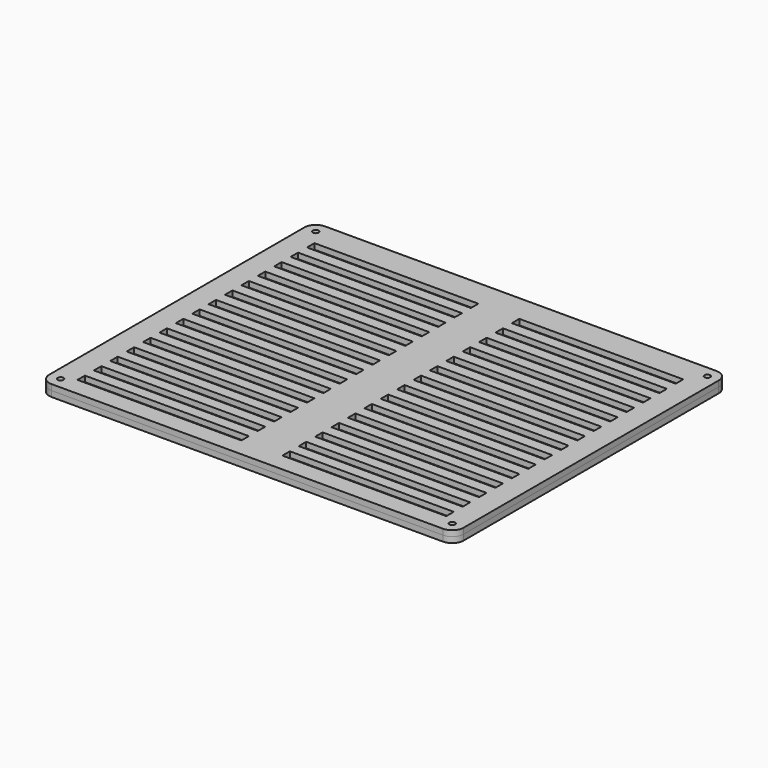
from build123d import *

# Parameters (mm, degrees)
F0_R     = 1.5875
F0_W     = 91.44
F0_H     = 5.207
F1_DEPTH = 3.175
F2_R     = 1.5875
F2_W     = 91.44
F2_H     = 5.207
F3_DEPTH = 3.175


with BuildPart() as f1:
    # F0 (on Top) → F1 (new body)
    with BuildSketch(Plane.XY):
        with BuildLine():
            Line((166.37, 175.3235), (-52.07, 175.3235))
            ThreePointArc((-52.07, 175.3235), (-56.560128, 173.463628), (-58.42, 168.9735))
            Line((-58.42, 168.9735), (-58.42, -8.9535))
            ThreePointArc((-58.42, -8.9535), (-56.560128, -13.443628), (-52.07, -15.3035))
            Line((-52.07, -15.3035), (166.37, -15.3035))
            ThreePointArc((166.37, -15.3035), (170.860128, -13.443628), (172.72, -8.9535))
            Line((172.72, -8.9535), (172.72, 168.9735))
            ThreePointArc((172.72, 168.9735), (170.860128, 173.463628), (166.37, 175.3235))
        make_face()
        with Locations((-52.07, -8.9535)):
            Circle(F0_R, mode=Mode.SUBTRACT)
        Rectangle(F0_W, F0_H, mode=Mode.SUBTRACT)
        with Locations((0, 11.43)):
            Rectangle(F0_W, F0_H, mode=Mode.SUBTRACT)
        with Locations((0, 22.86)):
            Rectangle(F0_W, F0_H, mode=Mode.SUBTRACT)
        with Locations((0, 34.29)):
            Rectangle(F0_W, F0_H, mode=Mode.SUBTRACT)
        with Locations((0, 45.72)):
            Rectangle(F0_W, F0_H, mode=Mode.SUBTRACT)
        with Locations((0, 57.15)):
            Rectangle(F0_W, F0_H, mode=Mode.SUBTRACT)
        with Locations((0, 68.58)):
            Rectangle(F0_W, F0_H, mode=Mode.SUBTRACT)
        with Locations((114.3, 0)):
            Rectangle(F0_W, F0_H, mode=Mode.SUBTRACT)
        with Locations((114.3, 11.43)):
            Rectangle(F0_W, F0_H, mode=Mode.SUBTRACT)
        with Locations((114.3, 22.86)):
            Rectangle(F0_W, F0_H, mode=Mode.SUBTRACT)
        with Locations((166.37, -8.9535)):
            Circle(F0_R, mode=Mode.SUBTRACT)
        with Locations((114.3, 34.29)):
            Rectangle(F0_W, F0_H, mode=Mode.SUBTRACT)
        with Locations((114.3, 45.72)):
            Rectangle(F0_W, F0_H, mode=Mode.SUBTRACT)
        with Locations((114.3, 57.15)):
            Rectangle(F0_W, F0_H, mode=Mode.SUBTRACT)
        with Locations((114.3, 68.58)):
            Rectangle(F0_W, F0_H, mode=Mode.SUBTRACT)
        with Locations((0, 80.01)):
            Rectangle(F0_W, F0_H, mode=Mode.SUBTRACT)
        with Locations((0, 91.44)):
            Rectangle(F0_W, F0_H, mode=Mode.SUBTRACT)
        with Locations((0, 102.87)):
            Rectangle(F0_W, F0_H, mode=Mode.SUBTRACT)
        with Locations((0, 114.3)):
            Rectangle(F0_W, F0_H, mode=Mode.SUBTRACT)
        with Locations((0, 125.73)):
            Rectangle(F0_W, F0_H, mode=Mode.SUBTRACT)
        with Locations((-52.07, 168.9735)):
            Circle(F0_R, mode=Mode.SUBTRACT)
        with Locations((0, 137.16)):
            Rectangle(F0_W, F0_H, mode=Mode.SUBTRACT)
        with Locations((0, 148.59)):
            Rectangle(F0_W, F0_H, mode=Mode.SUBTRACT)
        with Locations((0, 160.02)):
            Rectangle(F0_W, F0_H, mode=Mode.SUBTRACT)
        with Locations((114.3, 80.01)):
            Rectangle(F0_W, F0_H, mode=Mode.SUBTRACT)
        with Locations((114.3, 91.44)):
            Rectangle(F0_W, F0_H, mode=Mode.SUBTRACT)
        with Locations((114.3, 102.87)):
            Rectangle(F0_W, F0_H, mode=Mode.SUBTRACT)
        with Locations((114.3, 114.3)):
            Rectangle(F0_W, F0_H, mode=Mode.SUBTRACT)
        with Locations((114.3, 125.73)):
            Rectangle(F0_W, F0_H, mode=Mode.SUBTRACT)
        with Locations((114.3, 137.16)):
            Rectangle(F0_W, F0_H, mode=Mode.SUBTRACT)
        with Locations((114.3, 148.59)):
            Rectangle(F0_W, F0_H, mode=Mode.SUBTRACT)
        with Locations((114.3, 160.02)):
            Rectangle(F0_W, F0_H, mode=Mode.SUBTRACT)
        with Locations((166.37, 168.9735)):
            Circle(F0_R, mode=Mode.SUBTRACT)
    extrude(amount=F1_DEPTH)


with BuildPart() as f3:
    # F2 (on face) → F3 (new body)
    with BuildSketch(Plane.XY.offset(3.175)):
        with BuildLine():
            ThreePointArc((166.37, -15.3035), (170.860128, -13.443628), (172.72, -8.9535))
            Line((172.72, -8.9535), (172.72, 168.9735))
            ThreePointArc((172.72, 168.9735), (170.860128, 173.463628), (166.37, 175.3235))
            Line((166.37, 175.3235), (-52.07, 175.3235))
            ThreePointArc((-52.07, 175.3235), (-56.560128, 173.463628), (-58.42, 168.9735))
            Line((-58.42, 168.9735), (-58.42, -8.9535))
            ThreePointArc((-58.42, -8.9535), (-56.560128, -13.443628), (-52.07, -15.3035))
            Line((-52.07, -15.3035), (166.37, -15.3035))
        make_face()
        with Locations((-52.07, -8.9535)):
            Circle(F2_R, mode=Mode.SUBTRACT)
        with Locations((0, -2.54)):
            Rectangle(F2_W, F2_H, mode=Mode.SUBTRACT)
        with Locations((0, 8.89)):
            Rectangle(F2_W, F2_H, mode=Mode.SUBTRACT)
        with Locations((0, 20.32)):
            Rectangle(F2_W, F2_H, mode=Mode.SUBTRACT)
        with Locations((0, 31.75)):
            Rectangle(F2_W, F2_H, mode=Mode.SUBTRACT)
        with Locations((0, 43.18)):
            Rectangle(F2_W, F2_H, mode=Mode.SUBTRACT)
        with Locations((0, 54.61)):
            Rectangle(F2_W, F2_H, mode=Mode.SUBTRACT)
        with Locations((0, 66.04)):
            Rectangle(F2_W, F2_H, mode=Mode.SUBTRACT)
        with Locations((0, 77.47)):
            Rectangle(F2_W, F2_H, mode=Mode.SUBTRACT)
        with Locations((114.3, -2.54)):
            Rectangle(F2_W, F2_H, mode=Mode.SUBTRACT)
        with Locations((114.3, 8.89)):
            Rectangle(F2_W, F2_H, mode=Mode.SUBTRACT)
        with Locations((114.3, 20.32)):
            Rectangle(F2_W, F2_H, mode=Mode.SUBTRACT)
        with Locations((114.3, 31.75)):
            Rectangle(F2_W, F2_H, mode=Mode.SUBTRACT)
        with Locations((166.37, -8.9535)):
            Circle(F2_R, mode=Mode.SUBTRACT)
        with Locations((114.3, 43.18)):
            Rectangle(F2_W, F2_H, mode=Mode.SUBTRACT)
        with Locations((114.3, 54.61)):
            Rectangle(F2_W, F2_H, mode=Mode.SUBTRACT)
        with Locations((114.3, 66.04)):
            Rectangle(F2_W, F2_H, mode=Mode.SUBTRACT)
        with Locations((114.3, 77.47)):
            Rectangle(F2_W, F2_H, mode=Mode.SUBTRACT)
        with Locations((0, 88.9)):
            Rectangle(F2_W, F2_H, mode=Mode.SUBTRACT)
        with Locations((0, 100.33)):
            Rectangle(F2_W, F2_H, mode=Mode.SUBTRACT)
        with Locations((0, 111.76)):
            Rectangle(F2_W, F2_H, mode=Mode.SUBTRACT)
        with Locations((0, 123.19)):
            Rectangle(F2_W, F2_H, mode=Mode.SUBTRACT)
        with Locations((-52.07, 168.9735)):
            Circle(F2_R, mode=Mode.SUBTRACT)
        with Locations((0, 134.62)):
            Rectangle(F2_W, F2_H, mode=Mode.SUBTRACT)
        with Locations((0, 146.05)):
            Rectangle(F2_W, F2_H, mode=Mode.SUBTRACT)
        with Locations((0, 157.48)):
            Rectangle(F2_W, F2_H, mode=Mode.SUBTRACT)
        with Locations((114.3, 88.9)):
            Rectangle(F2_W, F2_H, mode=Mode.SUBTRACT)
        with Locations((114.3, 100.33)):
            Rectangle(F2_W, F2_H, mode=Mode.SUBTRACT)
        with Locations((114.3, 111.76)):
            Rectangle(F2_W, F2_H, mode=Mode.SUBTRACT)
        with Locations((114.3, 123.19)):
            Rectangle(F2_W, F2_H, mode=Mode.SUBTRACT)
        with Locations((114.3, 134.62)):
            Rectangle(F2_W, F2_H, mode=Mode.SUBTRACT)
        with Locations((114.3, 146.05)):
            Rectangle(F2_W, F2_H, mode=Mode.SUBTRACT)
        with Locations((114.3, 157.48)):
            Rectangle(F2_W, F2_H, mode=Mode.SUBTRACT)
        with Locations((166.37, 168.9735)):
            Circle(F2_R, mode=Mode.SUBTRACT)
    extrude(amount=F3_DEPTH)


solid = Compound([f1.part, f3.part])
